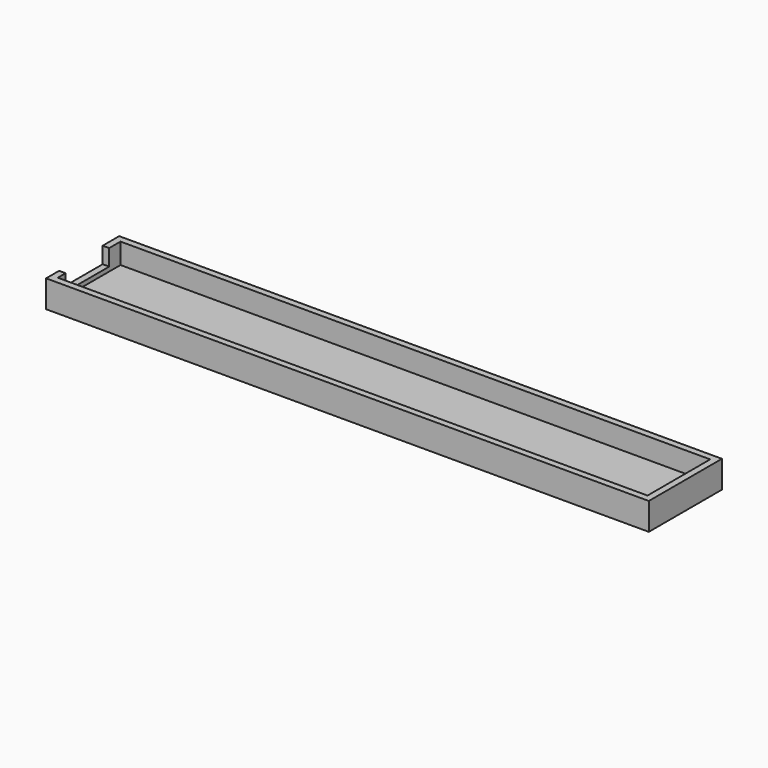
from build123d import *

# Parameters (mm, degrees)
F0_W     = 110.8
F0_H     = 16.8
F0_W_2   = 110
F0_H_2   = 16
F1_DEPTH = 5
F2_T     = -1.2
F4_W     = 10
F4_H     = 3
F5_DEPTH = 2


with BuildPart() as f1:
    # F0 (on Top) → F1 (new body)
    with BuildSketch(Plane.XY):
        Rectangle(F0_W, F0_H)
        Rectangle(F0_W_2, F0_H_2, mode=Mode.SUBTRACT)
        Rectangle(F0_W_2, F0_H_2)
    extrude(amount=F1_DEPTH)

    # F2
    f2_openings = [f1.faces().sort_by_distance(p)[0] for p in [
        (0, 0, 5),
    ]]
    offset(amount=F2_T, openings=f2_openings)

    # F4 (on offset) → F5 (cut)
    with BuildSketch(Plane(origin=(-55.4, 0, 0), x_dir=(0, -1, 0), z_dir=(-1, 0, 0))):
        with Locations((0.4, 3.5)):
            Rectangle(F4_W, F4_H)
    extrude(amount=-F5_DEPTH, mode=Mode.SUBTRACT)


solid = f1.part
